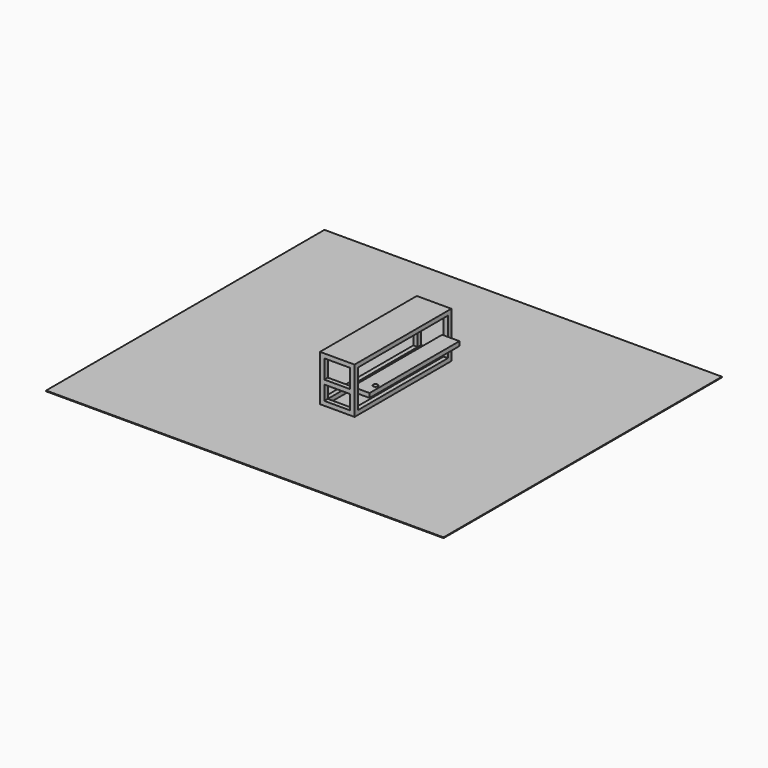
from build123d import *

# Parameters (mm, degrees)
F0_W      = 304.8
F0_H      = 1066.8
F1_DEPTH  = 38.1
F2_W      = 38.1
F2_H      = 38.1
F3_DEPTH  = 330.2
F4_W      = 304.8
F4_H      = 1066.8
F4_W_2    = 228.6
F4_H_2    = 990.6
F5_DEPTH  = 38.1
F7_W      = 38.1
F7_H      = 38.1
F8_DEPTH  = 228.6
F9_W      = 152.4
F9_H      = 38.1
F10_DEPTH = 990.6
F11_DEPTH = 990.6
F12_R     = 20.421914
F13_DEPTH = 38.1
F14_W     = 3504.41122
F14_H     = 3067.855716
F15_DEPTH = 6.35


with BuildPart() as f1:
    # F0 (on Top) → F1 (new body)
    with BuildSketch(Plane.XY):
        with Locations((0, 533.4)):
            Rectangle(F0_W, F0_H)
    extrude(amount=-F1_DEPTH)

    # F2 (on face) → F3 (join)
    with BuildSketch(Plane(origin=(0, 0, -38.1), x_dir=(1, 0, 0), z_dir=(0, 0, -1))):
        with Locations((-133.35, -19.05)):
            Rectangle(F2_W, F2_H)
        with Locations((133.35, -19.05)):
            Rectangle(F2_W, F2_H)
        with Locations((133.35, -1047.75)):
            Rectangle(F2_W, F2_H)
        with Locations((-133.35, -1047.75)):
            Rectangle(F2_W, F2_H)
    extrude(amount=F3_DEPTH)

    # F4 (on face) → F5 (join)
    with BuildSketch(Plane(origin=(0, 0, -368.3), x_dir=(1, 0, 0), z_dir=(0, 0, -1))):
        with Locations((0, -533.4)):
            Rectangle(F4_W, F4_H)
        with Locations((0, -533.4)):
            Rectangle(F4_W_2, F4_H_2, mode=Mode.SUBTRACT)
    extrude(amount=F5_DEPTH)

    # F7 (on face) → F8 (join, through all)
    with BuildSketch(Plane.YZ.offset(-114.3)):
        with Locations((19.05, -222.25)):
            Rectangle(F7_W, F7_H)
    extrude(amount=F8_DEPTH)

    # F9 (on face) → F10 (join, through all)
    with BuildSketch(Plane(origin=(0, 38.1, 0), x_dir=(-1, 0, 0), z_dir=(0, 1, 0))):
        with Locations((-177.8, -222.25)):
            Rectangle(F9_W, F9_H)
    extrude(amount=F10_DEPTH)

    # F9 (on face) → F11 (join, through all)
    with BuildSketch(Plane(origin=(0, 38.1, 0), x_dir=(-1, 0, 0), z_dir=(0, 1, 0))):
        with Locations((-177.8, -222.25)):
            Rectangle(F9_W, F9_H)
    extrude(amount=F11_DEPTH)

    # F12 (on face) → F13 (cut, through all)
    with BuildSketch(Plane.XY.offset(-203.2)):
        with Locations((215.9, 152.4)):
            Circle(F12_R)
    extrude(amount=-F13_DEPTH, mode=Mode.SUBTRACT)

    # F14 (on face) → F15 (join)
    with BuildSketch(Plane(origin=(0, 0, -406.4), x_dir=(1, 0, 0), z_dir=(0, 0, -1))):
        with Locations((0, -515.055001)):
            Rectangle(F14_W, F14_H)
    extrude(amount=F15_DEPTH)


solid = f1.part
